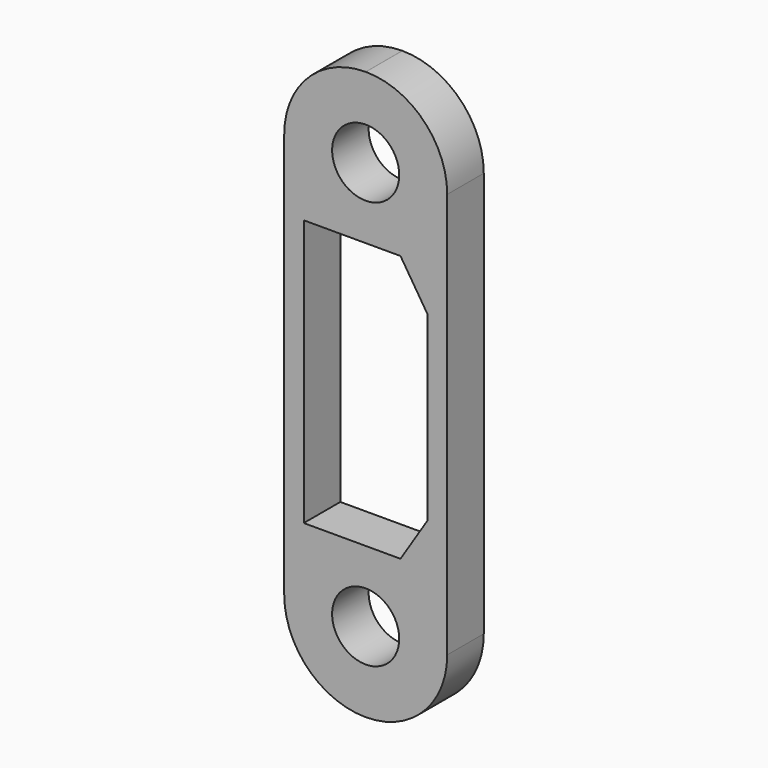
from build123d import *

# Parameters (mm, degrees)
F0_R     = 2.202397
F1_DEPTH = 3


with BuildPart() as f1:
    # F0 (on Front) → F1 (new body)
    with BuildSketch(Plane.XZ):
        with BuildLine():
            ThreePointArc((5.353281, 13.308599), (3.788862, 17.08544), (0.012022, 18.649858))
            Line((0.012022, 18.649858), (-1.8e-05, 18.649858))
            ThreePointArc((-1.8e-05, 18.649858), (-3.780706, 17.083846), (-5.346718, 13.303158))
            Line((-5.346718, 13.303158), (-5.346718, -13.303443))
            ThreePointArc((-5.346718, -13.303443), (-3.780706, -17.084131), (-1.8e-05, -18.650143))
            Line((-1.8e-05, -18.650143), (0.012022, -18.650143))
            ThreePointArc((0.012022, -18.650143), (3.788862, -17.085725), (5.353281, -13.308885))
            Line((5.353281, -13.308885), (5.353281, 13.308599))
        make_face()
        with Locations((-1.8e-05, -13.402148)):
            Circle(F0_R, mode=Mode.SUBTRACT)
        Polygon((4.063982, -5.956143), (2.285982, -8.750143), (-4.064018, -8.750143), (-4.064018, 8.749858), (2.285982, 8.749858), (4.063982, 5.955858), align=None, mode=Mode.SUBTRACT)
        with Locations((-1.8e-05, 13.401863)):
            Circle(F0_R, mode=Mode.SUBTRACT)
    extrude(amount=F1_DEPTH)


solid = f1.part
